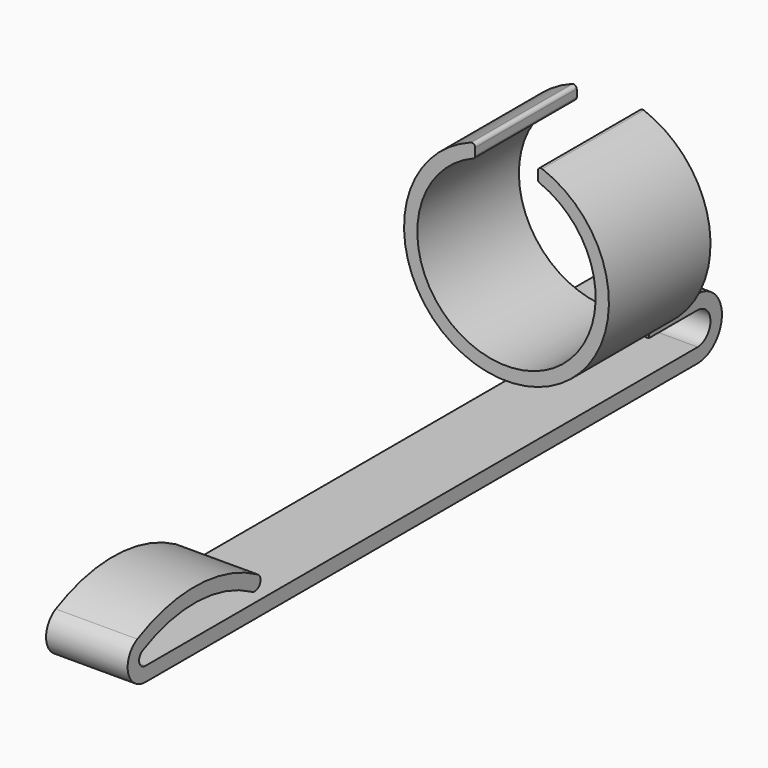
from build123d import *

# Parameters (mm, degrees)
F1_DEPTH = 5.84
F2_W     = 2.79
F2_H     = 0.66
F3_DEPTH = 1.875


with BuildPart() as f1:
    # F0 (on Front) → F1 (new body)
    with BuildSketch(Plane.XZ):
        with BuildLine():
            ThreePointArc((1.5338823529, 3.8022631323), (0, -4.1), (-1.5338823529, 3.8022631323))
            ThreePointArc((-1.5338823529, 3.8022631323), (-1.4656664827, 3.8574586018), (-1.44, 3.9413703201))
            Line((-1.44, 3.9413703201), (-1.44, 4.2738156254))
            ThreePointArc((-1.44, 4.2738156254), (-1.5044003351, 4.3969931289), (-1.6423026316, 4.4144016657))
            ThreePointArc((-1.6423026316, 4.4144016657), (0, -4.71), (1.6423026316, 4.4144016657))
            ThreePointArc((1.6423026316, 4.4144016657), (1.5044003351, 4.3969931289), (1.44, 4.2738156254))
            Line((1.44, 4.2738156254), (1.44, 3.9413703201))
            ThreePointArc((1.44, 3.9413703201), (1.4656664827, 3.8574586018), (1.5338823529, 3.8022631323))
        make_face()
    extrude(amount=F1_DEPTH)

    # F2 (on Right) → F3 (join, symmetric)
    with BuildSketch(Plane.YZ):
        with Locations((1.395, -4.41)):
            Rectangle(F2_W, F2_H)
        with BuildLine():
            Line((2.79, -4.08), (2.79, -4.74))
            ThreePointArc((2.79, -4.74), (3.5399175523, -5.4788795349), (2.8122384852, -6.2396702274))
            ThreePointArc((2.8122384852, -6.2396702274), (2.79, -6.24), (2.7677615148, -6.2396702274))
            Line((2.7677615148, -6.2396702274), (-28.9377615148, -6.2396702274))
            ThreePointArc((-28.9377615148, -6.2396702274), (-29.2889547374, -5.9627547168), (-29.1015934199, -5.5566579103))
            ThreePointArc((-29.1015934199, -5.5566579103), (-25.9439060993, -4.8439864519), (-22.8290893137, -5.7253525592))
            ThreePointArc((-22.8290893137, -5.7253525592), (-22.363124468, -5.613733552), (-22.4985094857, -5.154110949))
            ThreePointArc((-22.4985094857, -5.154110949), (-25.9261622728, -4.1842250127), (-29.4009912886, -4.9684734867))
            ThreePointArc((-29.4009912886, -4.9684734867), (-29.9307497668, -6.1166999675), (-28.9377615148, -6.8996702274))
            Line((-28.9377615148, -6.8996702274), (2.7595065561, -6.8996702274))
            ThreePointArc((2.7595065561, -6.8996702274), (4.1999175544, -5.5052476135), (2.79, -4.08))
        make_face()
        with BuildLine():
            ThreePointArc((2.7677615148, -6.2396702274), (2.79, -6.24), (2.8122384852, -6.2396702274))
            Line((2.8122384852, -6.2396702274), (2.7677615148, -6.2396702274))
        make_face()
    extrude(amount=F3_DEPTH, both=True)


solid = f1.part
